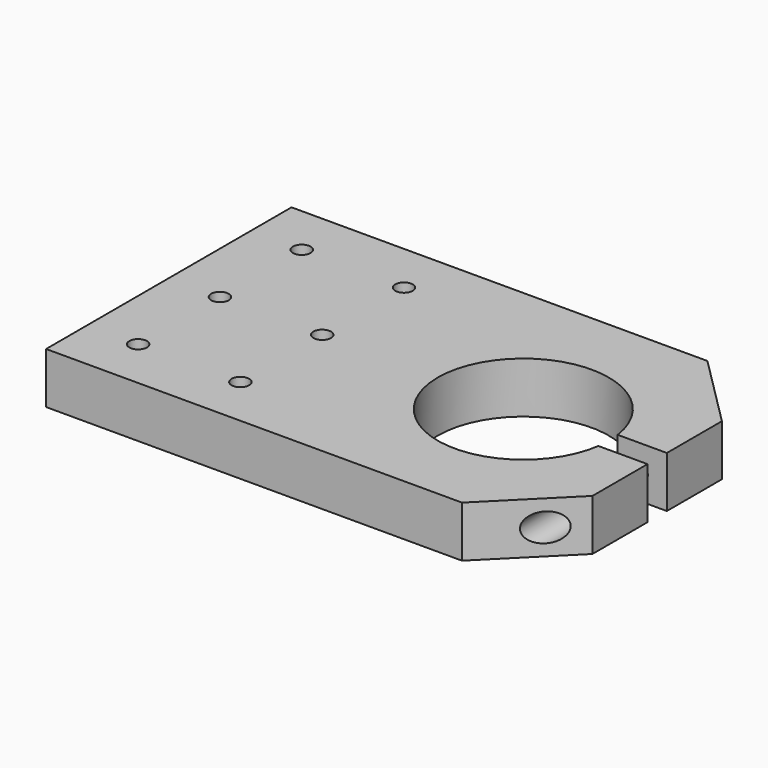
from build123d import *

# Parameters (mm, degrees)
F0_R     = 2.182812
F0_R_2   = 2.182813
F1_DEPTH = 6.35
F2_R     = 3.5
F2_R_2   = 2.182813
F3_DEPTH = 25
F2_R_3   = 1.785938
F4_DEPTH = 35.1
F5_DEPTH = 76.2


with BuildPart() as f1:
    # F0 (on Top) → F1 (new body, symmetric)
    with BuildSketch(Plane.XY):
        with BuildLine():
            ThreePointArc((21.037169, -3), (-21.25, 0), (21.037169, 3))
            Line((21.037169, 3), (33.25, 3))
            Line((33.25, 3), (33.25, 20.1))
            Line((33.25, 20.1), (15.25, 38.1))
            Line((15.25, 38.1), (-88.05, 38.1))
            Line((-88.05, 38.1), (-88.05, -38.1))
            Line((-88.05, -38.1), (15.25, -38.1))
            Line((15.25, -38.1), (33.25, -20.1))
            Line((33.25, -20.1), (33.25, -3))
            Line((33.25, -3), (21.037169, -3))
        make_face()
        with Locations((-75.35, -25.4)):
            Circle(F0_R, mode=Mode.SUBTRACT)
        with Locations((-49.95, -25.4)):
            Circle(F0_R_2, mode=Mode.SUBTRACT)
        with Locations((-75.35, 0)):
            Circle(F0_R, mode=Mode.SUBTRACT)
        with Locations((-49.95, 0)):
            Circle(F0_R_2, mode=Mode.SUBTRACT)
        with Locations((-75.35, 25.4)):
            Circle(F0_R_2, mode=Mode.SUBTRACT)
        with Locations((-49.95, 25.4)):
            Circle(F0_R_2, mode=Mode.SUBTRACT)
    extrude(amount=F1_DEPTH, both=True)

    # F2 (on face) → F3 (cut)
    with BuildSketch(Plane.XZ.offset(38.1)):
        with Locations((26.75, 0)):
            Circle(F2_R)
        with Locations((26.75, 0)):
            Circle(F2_R_2, mode=Mode.SUBTRACT)
    extrude(amount=-F3_DEPTH, mode=Mode.SUBTRACT)

    # F2 (on face) → F4 (cut, through all)
    with BuildSketch(Plane.XZ.offset(38.1)):
        with Locations((26.75, 0)):
            Circle(F2_R_2)
        with Locations((26.75, 0)):
            Circle(F2_R_3, mode=Mode.SUBTRACT)
        with Locations((26.75, 0)):
            Circle(F2_R_3)
    extrude(amount=-F4_DEPTH, mode=Mode.SUBTRACT)

    # F2 (on face) → F5 (cut, through all)
    with BuildSketch(Plane.XZ.offset(38.1)):
        with Locations((26.75, 0)):
            Circle(F2_R_3)
    extrude(amount=-F5_DEPTH, mode=Mode.SUBTRACT)


solid = f1.part
